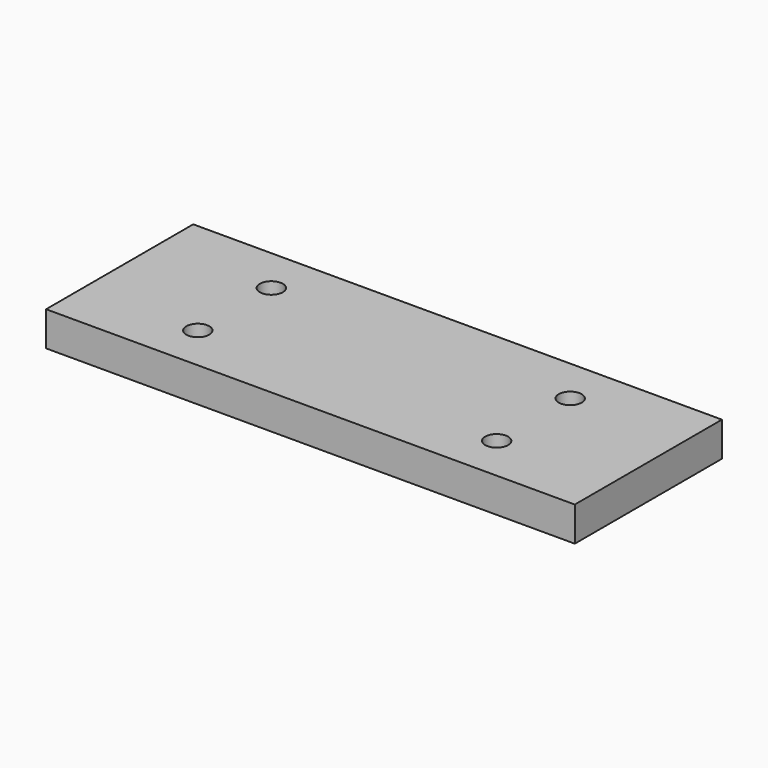
from build123d import *

# Parameters (mm, degrees)
F0_W     = 292.1
F0_H     = 101.6
F1_DEPTH = 9.525
F2_R     = 6.35
F3_DEPTH = 63.5


with BuildPart() as f1:
    # F0 (on Top) → F1 (new body, symmetric)
    with BuildSketch(Plane.XY):
        Rectangle(F0_W, F0_H)
    extrude(amount=F1_DEPTH, both=True)

    # F2 (on face) → F3 (cut, symmetric)
    with BuildSketch(Plane.XY.offset(9.525)):
        with Locations((-82.55, 25.4)):
            Circle(F2_R)
        with Locations((82.55, 25.4)):
            Circle(F2_R)
        with Locations((82.55, -25.4)):
            Circle(F2_R)
        with Locations((-82.55, -25.4)):
            Circle(F2_R)
    extrude(amount=F3_DEPTH, both=True, mode=Mode.SUBTRACT)


solid = f1.part
